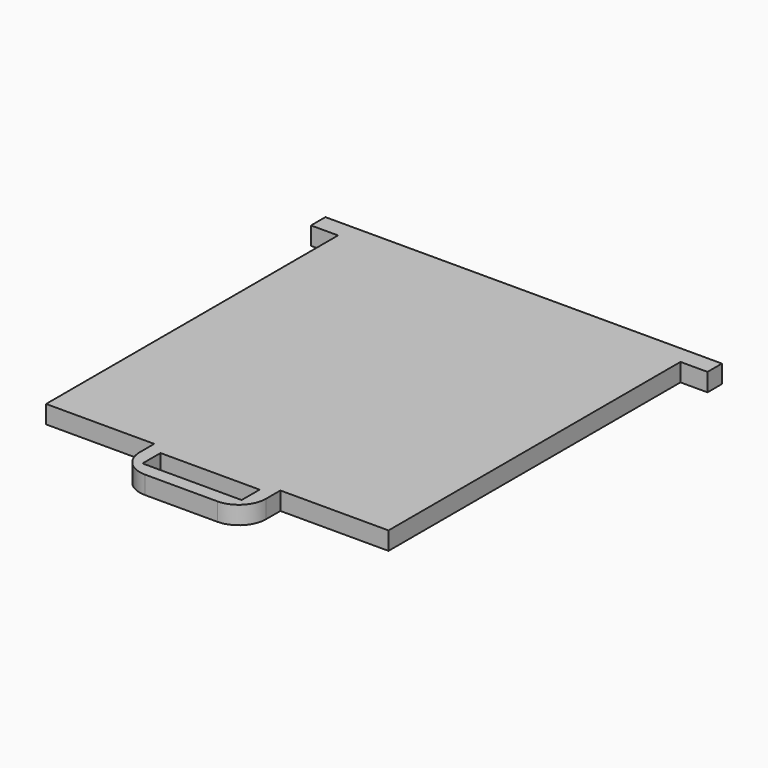
from build123d import *

# Parameters (mm, degrees)
F0_W     = 6
F0_H     = 4
F1_DEPTH = 4
F2_W     = 22
F2_H     = 5
F3_DEPTH = 4.001


with BuildPart() as f1:
    # F0 (on Top) → F1 (new body)
    with BuildSketch(Plane.XY):
        Polygon((0, 81), (0, 0), (24, 0), (52, 0), (76, 0), (76, 81), (76, 85), (0, 85), align=None)
        with BuildLine():
            Line((52, 0), (24, 0))
            Line((24, 0), (24, -4))
            ThreePointArc((24, -4), (25.757359, -8.242641), (30, -10))
            Line((30, -10), (46, -10))
            ThreePointArc((46, -10), (50.242641, -8.242641), (52, -4))
            Line((52, -4), (52, 0))
        make_face()
        with Locations((-3, 83)):
            Rectangle(F0_W, F0_H)
        with Locations((79, 83)):
            Rectangle(F0_W, F0_H)
    extrude(amount=F1_DEPTH)

    # F2 (on face) → F3 (cut, through all)
    with BuildSketch(Plane.XY.offset(4)):
        with Locations((38, -4.5)):
            Rectangle(F2_W, F2_H)
    extrude(amount=-F3_DEPTH, mode=Mode.SUBTRACT)


solid = f1.part
